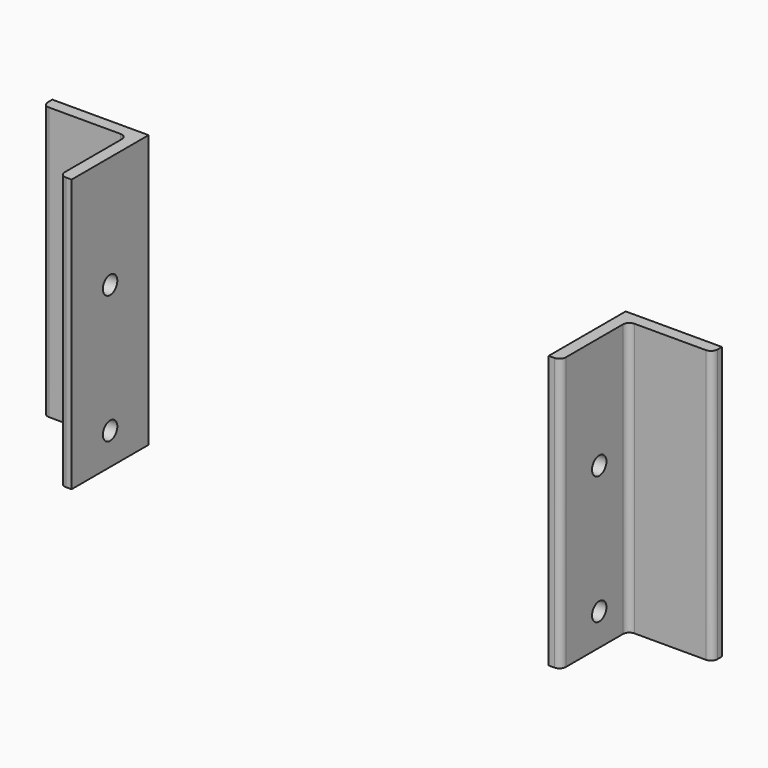
from build123d import *

# Parameters (mm, degrees)
F1_DEPTH = 107.95
F2_R     = 5.08
F3_R     = 7.14375
F4_DEPTH = 408.94
F5_R     = 7.14375
F6_DEPTH = 25.4


with BuildPart() as f1:
    # F0 (on Top) → F1 (new body, symmetric)
    with BuildSketch(Plane.XY):
        Polygon((294.232082, -38.1), (303.757082, -38.1), (303.757082, 28.575), (370.432082, 28.575), (370.432082, 38.1), (294.232082, 38.1), align=None)
        Polygon((-93.117918, -38.1), (-83.592918, -38.1), (-83.592918, 38.1), (-159.792918, 38.1), (-159.792918, 28.575), (-93.117918, 28.575), align=None)
    extrude(amount=F1_DEPTH, both=True)

    # F2
    f2_edges = [f1.edges().sort_by_distance(p)[0] for p in [
        (-159.792918, 28.575, 0),
        (-93.117918, 28.575, 0),
        (-93.117918, -38.1, 0),
        (303.757082, -38.1, 0),
        (303.757082, 28.575, 0),
        (370.432082, 28.575, 0),
    ]]
    fillet(f2_edges, radius=F2_R)

    # F3 (on face) → F4 (cut, symmetric)
    with BuildSketch(Plane.YZ.offset(303.757082)):
        with Locations((0, -82.55)):
            Circle(F3_R)
        with Locations((0, 19.05)):
            Circle(F3_R)
    extrude(amount=F4_DEPTH, both=True, mode=Mode.SUBTRACT)

    # F5 (on face) → F6 (cut)
    with BuildSketch(Plane.YZ.offset(-83.592918)):
        with Locations((0, -82.55)):
            Circle(F5_R)
        with Locations((0, 19.05)):
            Circle(F5_R)
    extrude(amount=-F6_DEPTH, mode=Mode.SUBTRACT)


solid = f1.part
